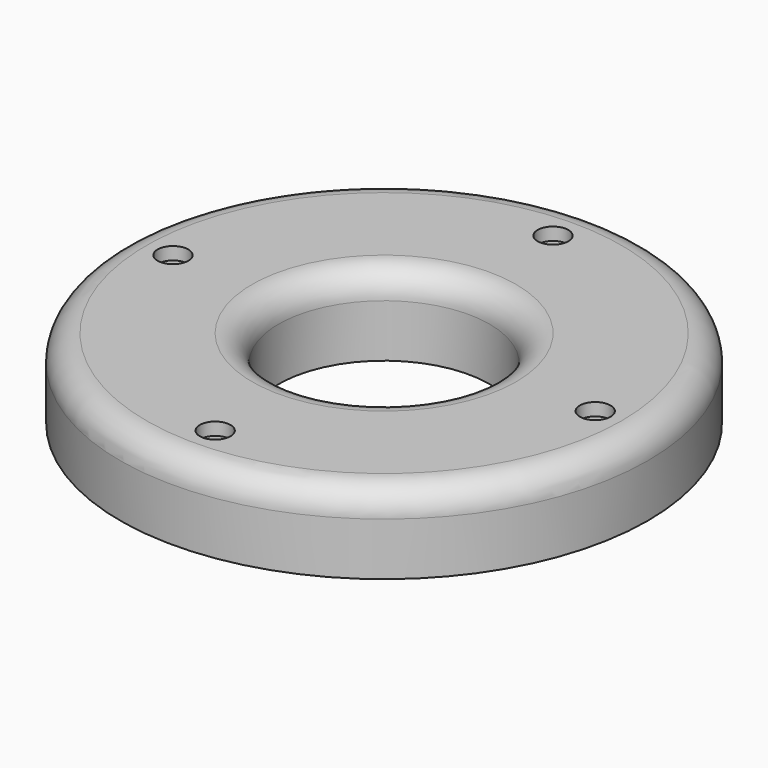
from build123d import *

# Parameters (mm, degrees)
F0_R     = 63.453437
F0_R_2   = 3.689895
F0_R_3   = 25.381375
F1_DEPTH = 19.05
F0_R_4   = 1.586336
F2_DEPTH = 16
F3_R     = 6.35
F4_R     = 6.35


with BuildPart() as f1:
    # F0 (on Top) → F1 (new body)
    with BuildSketch(Plane.XY):
        with Locations((73.005051, 73.255326)):
            Circle(F0_R)
        with Locations((73.00505, 22.501889)):
            Circle(F0_R_2, mode=Mode.SUBTRACT)
        with Locations((22.251614, 73.255323)):
            Circle(F0_R_2, mode=Mode.SUBTRACT)
        with Locations((123.758487, 73.255323)):
            Circle(F0_R_2, mode=Mode.SUBTRACT)
        with Locations((73.00505, 124.008762)):
            Circle(F0_R_2, mode=Mode.SUBTRACT)
        with Locations((73.005051, 73.255326)):
            Circle(F0_R_3, mode=Mode.SUBTRACT)
    extrude(amount=F1_DEPTH)

    # F0 (on Top) → F2 (join)
    with BuildSketch(Plane.XY):
        with Locations((22.251614, 73.255323)):
            Circle(F0_R_2)
        with Locations((22.251614, 73.255323)):
            Circle(F0_R_4, mode=Mode.SUBTRACT)
        with Locations((73.00505, 22.501889)):
            Circle(F0_R_2)
        with Locations((73.00505, 22.501889)):
            Circle(F0_R_4, mode=Mode.SUBTRACT)
        with Locations((123.758487, 73.255323)):
            Circle(F0_R_2)
        with Locations((123.758487, 73.255323)):
            Circle(F0_R_4, mode=Mode.SUBTRACT)
        with Locations((73.00505, 124.008762)):
            Circle(F0_R_2)
        with Locations((73.00505, 124.008762)):
            Circle(F0_R_4, mode=Mode.SUBTRACT)
    extrude(amount=F2_DEPTH)

    # F3
    f3_edges = [f1.edges().sort_by_distance(p)[0] for p in [
        (9.551614, 73.255326, 19.05),
    ]]
    fillet(f3_edges, radius=F3_R)

    # F4
    f4_edges = [f1.edges().sort_by_distance(p)[0] for p in [
        (47.623676, 73.255326, 19.05),
    ]]
    fillet(f4_edges, radius=F4_R)


solid = f1.part
